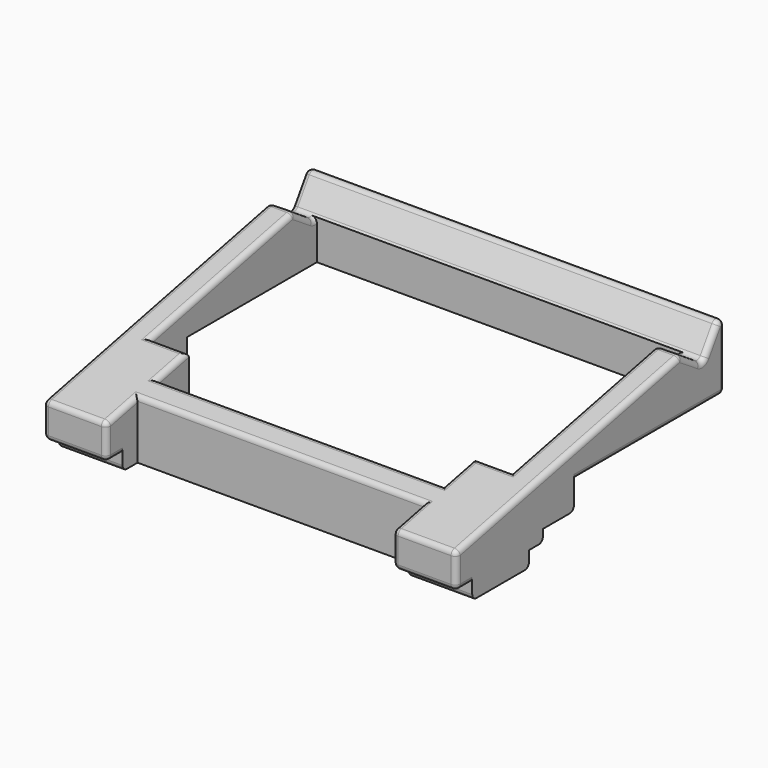
from build123d import *

# Parameters (mm, degrees)
PAD_DEPTH         = 160
FILLET_R          = 2
SKETCH001_W       = 15
SKETCH001_H       = 111
POCKET_DEPTH      = 25.547835
POCKET_DEPTH_BACK = -21.001
FILLET001_R       = 2


with BuildPart() as part:
    # Sketch → Pad (new body)
    with BuildSketch(Plane.YZ):
        with BuildLine():
            Line((0, 0), (0, 13.384276))
            Line((0, 13.384276), (108.603536, 36.46867))
            Line((108.603536, 36.46867), (117.942463, 30.4039))
            ThreePointArc((117.942463, 30.4039), (119.447565, 30.124946), (120.709082, 30.991963))
            Line((120.709082, 30.991963), (126.322659, 39.636113))
            ThreePointArc((130, 38.546835), (128.568031, 40.464474), (126.322659, 39.636113))
            Line((130, 38.546835), (130, 15))
            Line((130, 15), (57, 15))
            Line((57, 15), (57, 4.5))
            Line((57, 4.5), (42, 4.5))
            Line((42, 4.5), (42, 0))
            Line((42, 0), (35.25, 0))
            Line((35.25, 0), (35.25, -6))
            Line((35.25, -6), (7.75, -6))
            Line((7.75, -6), (7.75, 0))
            Line((7.75, 0), (0, 0))
        make_face()
    extrude(amount=PAD_DEPTH)

    # Fillet
    fillet_edges = [part.edges().sort_by_distance(p)[0] for p in [
        (80, 42, 0),
        (80, 35.25, -6),
        (80, 0, 13.384276),
        (80, 108.603536, 36.46867),
        (80, 130, 38.546835),
        (80, 130, 15),
        (80, 0, 0),
        (80, 57, 4.5),
        (80, 7.75, -6),
    ]]
    fillet(fillet_edges, radius=FILLET_R)

    # Sketch001 (on Face2 of Pad) → Pocket (cut, two sides)
    with BuildSketch(Plane.YX.offset(-15)) as pocket_sk:
        Polygon((25, 135.5), (25, 24.5), (40, 24.5), (40, 10), (120, 10), (120, 150), (40, 150), (40, 135.5), align=None)
        with Locations((7.5, 80)):
            Rectangle(SKETCH001_W, SKETCH001_H)
    extrude(amount=-POCKET_DEPTH, mode=Mode.SUBTRACT)
    extrude(pocket_sk.sketch, amount=-POCKET_DEPTH_BACK, mode=Mode.SUBTRACT)

    # Fillet001
    fillet001_edges = [part.edges().sort_by_distance(p)[0] for p in [
        (0, 54.688694, 25.008717),
        (160, 54.688694, 25.008717),
        (150, 73.896606, 29.091484),
        (10, 73.896606, 29.091484),
        (80, 25, 18.69819),
        (80, 15, 16.572624),
        (24.5, 0, 6.882354),
        (135.5, 0, 6.882354),
        (24.5, 32.5, 20.292364),
        (135.5, 32.5, 20.292364),
        (142.75, 40, 21.886538),
        (17.25, 40, 21.886538),
    ]]
    fillet(fillet001_edges, radius=FILLET001_R)


solid = part.part
